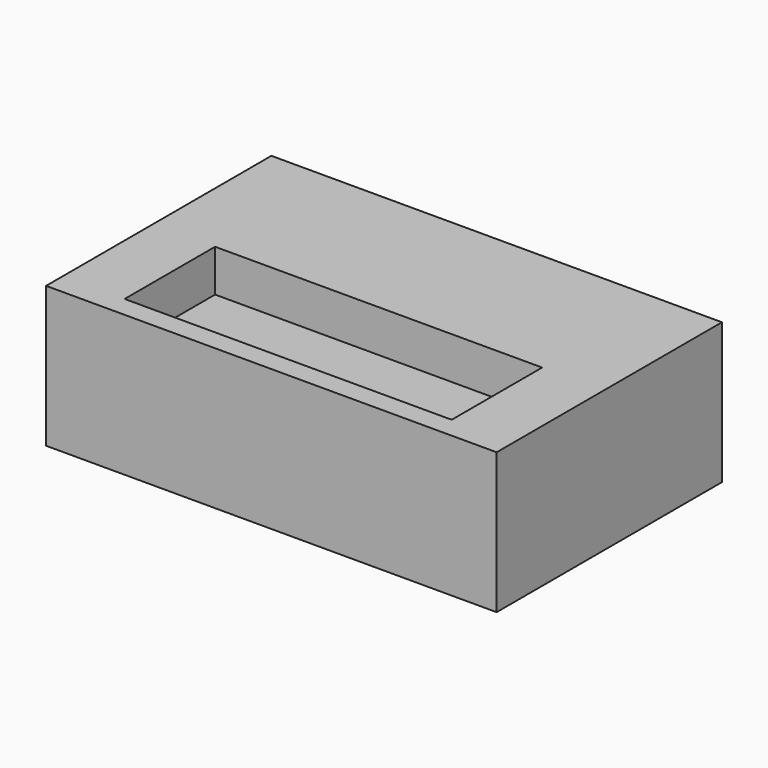
from build123d import *

# Parameters (mm, degrees)
SKETCH_W     = 406.4
SKETCH_H     = 254
PAD_DEPTH    = 127
SKETCH001_W  = 295
SKETCH001_H  = 102
POCKET_DEPTH = 38


with BuildPart() as part:
    # Sketch → Pad (new body)
    with BuildSketch(Plane.XY):
        Rectangle(SKETCH_W, SKETCH_H)
    extrude(amount=PAD_DEPTH)

    # Sketch001 → Pocket (cut)
    with BuildSketch(Plane.XY.offset(127)):
        with Locations((0, -57.077294)):
            Rectangle(SKETCH001_W, SKETCH001_H)
    extrude(amount=-POCKET_DEPTH, mode=Mode.SUBTRACT)


solid = part.part
